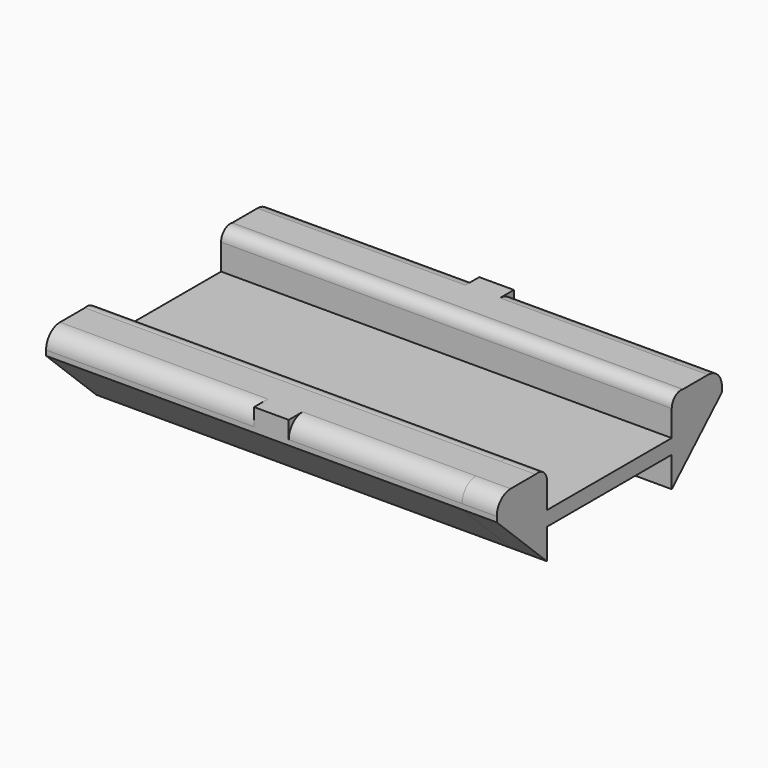
from build123d import *

# Parameters (mm, degrees)
F0_W     = 114.3
F0_H     = 10.7573736592
F0_W_2   = 21.6373776872
F0_H_2   = 16.51
F0_W_3   = 22.1525625052
F1_DEPTH = 152.4
F2_R     = 12.7
F0_H_3   = 22.2626263408
F3_DEPTH = 25.4


with BuildPart() as f1:
    # F0 (on Right) → F1 (new body, symmetric)
    with BuildSketch(Plane.YZ):
        with Locations((0, 11.1313131704)):
            Rectangle(F0_W, F0_H)
        with Locations((92.2932059716, 35.56)):
            Rectangle(F0_W_2, F0_H_2)
        with Locations((-92.0356135626, 35.56)):
            Rectangle(F0_W_3, F0_H_2)
        with BuildLine():
            Line((-57.15, 5.7526263408), (-57.15, 16.51))
            Line((-57.15, 16.51), (-57.15, 35.56))
            ThreePointArc((-57.15, 35.56), (-60.3224589832, 42.164), (-67.4604916954, 43.815))
            Line((-67.4604916954, 43.815), (-80.95933231, 43.815))
            Line((-80.95933231, 43.815), (-80.95933231, 27.305))
            Line((-80.95933231, 27.305), (-57.15, 5.7526263408))
        make_face()
        with BuildLine():
            Line((57.15, 35.56), (57.15, 16.51))
            Line((57.15, 16.51), (57.15, 5.7526263408))
            Line((57.15, 5.7526263408), (81.474517128, 27.305))
            Line((81.474517128, 27.305), (81.474517128, 43.815))
            Line((81.474517128, 43.815), (67.460704078, 43.815))
            ThreePointArc((67.460704078, 43.815), (60.322539648, 42.1640828959), (57.15, 35.56))
        make_face()
        Polygon((-57.15, -16.51), (-57.15, 5.7526263408), (-80.95933231, 27.305), (-103.1118948152, 27.305), align=None)
        Polygon((81.474517128, 27.305), (57.15, 5.7526263408), (57.15, -16.51), (103.1118948152, 27.305), align=None)
    extrude(amount=F1_DEPTH, both=True)

    # F2
    f2_edges = [f1.edges().sort_by_distance(p)[0] for p in [
        (0, -103.111895, 43.815),
        (0, 103.111895, 43.815),
    ]]
    fillet(f2_edges, radius=F2_R)

    # F0 (on Right) + F1_face (on face) + F1_face1 (on face) → F3 (join)
    with BuildSketch(Plane.YZ):
        with Locations((0, 11.1313131704)):
            Rectangle(F0_W, F0_H)
        with BuildLine():
            Line((-57.15, 5.7526263408), (-57.15, 16.51))
            Line((-57.15, 16.51), (-57.15, 35.56))
            ThreePointArc((-57.15, 35.56), (-60.3224589832, 42.164), (-67.4604916954, 43.815))
            Line((-67.4604916954, 43.815), (-80.95933231, 43.815))
            Line((-80.95933231, 43.815), (-80.95933231, 27.305))
            Line((-80.95933231, 27.305), (-57.15, 5.7526263408))
        make_face()
        with BuildLine():
            Line((57.15, 35.56), (57.15, 16.51))
            Line((57.15, 16.51), (57.15, 5.7526263408))
            Line((57.15, 5.7526263408), (81.474517128, 27.305))
            Line((81.474517128, 27.305), (81.474517128, 43.815))
            Line((81.474517128, 43.815), (67.460704078, 43.815))
            ThreePointArc((67.460704078, 43.815), (60.322539648, 42.1640828959), (57.15, 35.56))
        make_face()
        with Locations((0, -5.3786868296)):
            Rectangle(F0_W, F0_H_3)
        Polygon((-57.15, -16.51), (-57.15, 5.7526263408), (-80.95933231, 27.305), (-103.1118948152, 27.305), align=None)
        Polygon((81.474517128, 27.305), (57.15, 5.7526263408), (57.15, -16.51), (103.1118948152, 27.305), align=None)
        with Locations((-92.0356135626, 35.56)):
            Rectangle(F0_W_3, F0_H_2)
        with Locations((92.2932059716, 35.56)):
            Rectangle(F0_W_2, F0_H_2)
    with BuildSketch(Plane(origin=(-152.4, 3.5899e-06, 19.1366208501), x_dir=(0, 1, 0), z_dir=(-1, 0, 0))):
        with BuildLine():
            Line((103.1118912253, -11.9783791499), (103.1118912253, -8.1683791499))
            Line((103.1118912253, -8.1683791499), (57.1499964101, 35.6466208501))
            Line((57.1499964101, 35.6466208501), (57.1499964101, 13.3839945093))
            Line((57.1499964101, 13.3839945093), (-57.1500035899, 13.3839945093))
            Line((-57.1500035899, 13.3839945093), (-57.1500035899, 35.6466208501))
            Line((-57.1500035899, 35.6466208501), (-103.111898405, -8.1683791499))
            Line((-103.111898405, -8.1683791499), (-103.111898405, -11.9783791499))
            ThreePointArc((-103.111898405, -11.9783791499), (-99.3921545261, -20.958635271), (-90.411898405, -24.6783791499))
            Line((-90.411898405, -24.6783791499), (-67.4604952852, -24.6783791499))
            ThreePointArc((-67.4604952852, -24.6783791499), (-60.3224625731, -23.0273791499), (-57.1500035899, -16.4233791499))
            Line((-57.1500035899, -16.4233791499), (-57.1500035899, 2.6266208501))
            Line((-57.1500035899, 2.6266208501), (57.1499964101, 2.6266208501))
            Line((57.1499964101, 2.6266208501), (57.1499964101, -16.4233791499))
            ThreePointArc((57.1499964101, -16.4233791499), (60.3225360581, -23.0274620458), (67.4607004881, -24.6783791499))
            Line((67.4607004881, -24.6783791499), (90.4118912253, -24.6783791499))
            ThreePointArc((90.4118912253, -24.6783791499), (99.3921473464, -20.958635271), (103.1118912253, -11.9783791499))
        make_face()
    with BuildSketch(Plane(origin=(152.4, 3.5899e-06, 19.1366208501), x_dir=(0, 1, 0), z_dir=(1, 0, 0))):
        with BuildLine():
            Line((103.1118912253, 8.1683791499), (103.1118912253, 11.9783791499))
            ThreePointArc((103.1118912253, 11.9783791499), (99.3921473464, 20.958635271), (90.4118912253, 24.6783791499))
            Line((90.4118912253, 24.6783791499), (67.4607004881, 24.6783791499))
            ThreePointArc((67.4607004881, 24.6783791499), (60.3225360581, 23.0274620458), (57.1499964101, 16.4233791499))
            Line((57.1499964101, 16.4233791499), (57.1499964101, -2.6266208501))
            Line((57.1499964101, -2.6266208501), (-57.1500035899, -2.6266208501))
            Line((-57.1500035899, -2.6266208501), (-57.1500035899, 16.4233791499))
            ThreePointArc((-57.1500035899, 16.4233791499), (-60.3224625731, 23.0273791499), (-67.4604952852, 24.6783791499))
            Line((-67.4604952852, 24.6783791499), (-90.411898405, 24.6783791499))
            ThreePointArc((-90.411898405, 24.6783791499), (-99.3921545261, 20.958635271), (-103.111898405, 11.9783791499))
            Line((-103.111898405, 11.9783791499), (-103.111898405, 8.1683791499))
            Line((-103.111898405, 8.1683791499), (-57.1500035899, -35.6466208501))
            Line((-57.1500035899, -35.6466208501), (-57.1500035899, -13.3839945093))
            Line((-57.1500035899, -13.3839945093), (57.1499964101, -13.3839945093))
            Line((57.1499964101, -13.3839945093), (57.1499964101, -35.6466208501))
            Line((57.1499964101, -35.6466208501), (103.1118912253, 8.1683791499))
        make_face()
    extrude(amount=F3_DEPTH, dir=(1, 0, 0))


solid = f1.part
